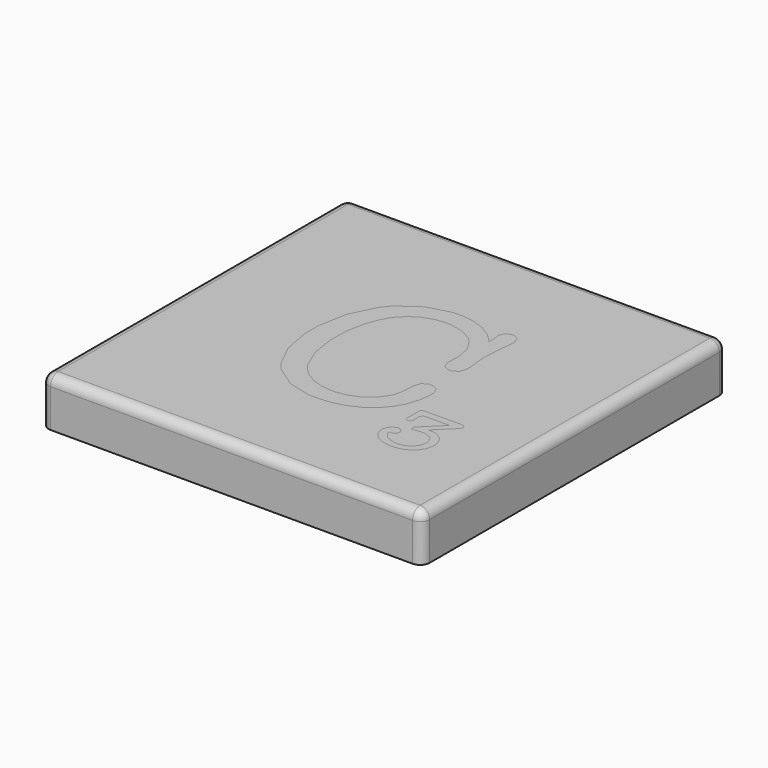
from build123d import *

# Parameters (mm, degrees)
F0_W     = 40
F0_H     = 40
F1_DEPTH = 5
F2_R     = 1
F5_DEPTH = 3


with BuildPart() as f1:
    # F0 (on Top) → F1 (new body)
    with BuildSketch(Plane.XY):
        Rectangle(F0_W, F0_H)
    extrude(amount=-F1_DEPTH)

    # F2
    f2_edges = [f1.edges().sort_by_distance(p)[0] for p in [
        (0, -20, 0),
        (20, 0, 0),
        (0, 20, 0),
        (-20, 0, 0),
        (-20, 20, -2.5),
        (20, 20, -2.5),
        (-20, -20, -2.5),
        (20, -20, -2.5),
    ]]
    fillet(f2_edges, radius=F2_R)


with BuildPart() as f5:
    # F3 (on Top) + F4 (on Top) → F5 (new body)
    with BuildSketch(Plane.XY):
        Polygon((0.866115, 9.405798), (0.516103, 9.405798), (-0.290068, 9.405798), (-2.708554, 8.744356), (-4.874819, 7.200951), (-5.238598, 6.759981), (-5.602402, 6.319012), (-6.875729, 3.697961), (-7.421423, 0.775132), (-7.421423, -0.199136), (-7.421423, -1.138936), (-6.889496, -3.961155), (-5.647893, -6.473342), (-5.292344, -6.892265), (-4.938192, -7.311187), (-2.80223, -8.777402), (-0.393446, -9.405798), (0.409981, -9.405798), (0.777926, -9.405798), (1.885848, -9.292793), (3.21978, -8.955176), (4.413148, -8.392947), (5.222088, -7.82795), (5.463235, -7.607452), (5.698896, -7.389724), (6.319012, -6.642837), (6.930873, -5.548655), (7.298766, -4.327728), (7.421423, -3.314852), (7.421423, -2.977261), (7.421423, -2.748483), (7.149973, -2.063598), (6.539484, -1.760449), (6.336919, -1.760449), (6.148121, -1.760449), (5.581726, -2.063598), (5.330952, -2.748483), (5.330952, -2.977261), (5.330952, -3.268015), (5.250993, -4.140327), (5.06636, -4.91203), (5.014011, -5.040147), (4.934077, -5.234457), (4.360799, -6.091606), (3.556051, -6.799936), (3.360369, -6.919824), (3.163291, -7.038315), (2.106346, -7.454494), (1.052144, -7.63364), (0.700735, -7.63364), (0.378257, -7.63364), (-0.587705, -7.506868), (-1.724609, -7.126529), (-2.711298, -6.493993), (-3.36583, -5.850458), (-3.546399, -5.609285), (-3.799942, -5.271694), (-4.687392, -3.185312), (-5.067732, -0.766902), (-5.067732, 0.039268), (-5.067732, 0.459588), (-4.975403, 1.716354), (-4.697044, 3.201848), (-4.234028, 4.494479), (-3.773754, 5.340579), (-3.584956, 5.595518), (-3.409925, 5.83532), (-2.774696, 6.476086), (-1.819681, 7.104456), (-0.724179, 7.480706), (0.206045, 7.606081), (0.516103, 7.606081), (0.969442, 7.606081), (2.333701, 7.308444), (3.561563, 6.613881), (3.769614, 6.415456), (3.976345, 6.217006), (4.688789, 5.047056), (4.968545, 3.638702), (4.960239, 3.32039), (4.934077, 2.368169), (4.928565, 2.179371), (5.17111, 1.515161), (5.747106, 1.229893), (5.940044, 1.229893), (6.117819, 1.229893), (6.65386, 1.527581), (6.892265, 2.197278), (6.892265, 2.420518), (6.892265, 2.68511), (6.786143, 3.691103), (6.772351, 3.81508), (6.70621, 4.78249), (6.70621, 5.146294), (6.70621, 5.324069), (6.739306, 5.854598), (6.816446, 6.750304), (6.838493, 6.970801), (6.856425, 7.147179), (6.918452, 7.818298), (6.944614, 8.136611), (6.944614, 8.24136), (6.944614, 8.450834), (6.720002, 9.07509), (6.212891, 9.352051), (6.044743, 9.352051), (5.884901, 9.352051), (5.409514, 9.128811), (5.198643, 8.623071), (5.198643, 8.453603), (5.241366, 8.02226), (5.250993, 7.924419), (5.250993, 7.885836), (5.27304, 7.765923), (5.278603, 7.738364), (5.278603, 7.44761), (5.304765, 7.156856), (5.082896, 7.425563), (4.309821, 8.140751), (3.181223, 8.843543), (1.916151, 9.265234), align=None)
    with BuildSketch(Plane.XY):
        Polygon((12.033296, -6.429832), (10.051664, -8.372856), (10.025502, -8.397646), (9.898706, -8.572652), (9.898706, -8.640191), (9.898706, -8.70082), (10.069597, -8.88685), (10.127458, -8.88685), (10.163297, -8.88685), (10.274905, -8.871712), (10.290069, -8.868943), (10.35621, -8.853779), (10.868859, -8.7821), (11.061772, -8.7821), (11.324992, -8.7821), (12.118742, -9.090812), (12.471522, -9.788093), (12.471522, -10.020985), (12.471522, -10.180828), (12.344726, -10.661777), (12.049832, -11.102746), (11.965783, -11.17854), (11.881709, -11.252962), (11.389736, -11.517528), (10.849555, -11.630533), (10.670408, -11.630533), (10.385166, -11.630533), (9.532158, -11.343894), (9.446713, -11.287404), (9.359895, -11.229517), (8.927181, -10.679684), (8.927181, -10.47849), (8.927181, -10.410977), (9.031931, -10.410977), (9.136655, -10.410977), (9.453596, -10.291089), (9.59416, -10.023729), (9.59416, -9.93554), (9.59416, -9.844582), (9.463248, -9.573133), (9.437061, -9.549688), (9.410873, -9.524898), (9.132515, -9.402241), (9.031931, -9.402241), (8.883087, -9.402241), (8.436605, -9.658553), (8.393883, -9.710928), (8.351185, -9.761905), (8.137571, -10.278668), (8.137571, -10.468838), (8.137571, -10.646613), (8.315346, -11.184051), (8.731499, -11.68151), (8.851413, -11.768328), (8.969904, -11.853773), (9.653418, -12.156948), (10.38791, -12.287859), (10.633197, -12.287859), (10.896418, -12.287859), (11.688771, -12.127992), (12.409496, -11.755932), (12.533524, -11.649837), (12.656155, -11.542344), (13.086126, -10.918088), (13.270759, -10.230434), (13.270759, -10.001681), (13.270759, -9.817023), (13.141219, -9.264446), (12.838044, -8.758682), (12.75265, -8.673287), (12.665832, -8.58647), (12.160093, -8.28327), (11.606119, -8.15373), (11.422833, -8.15373), (11.298804, -8.15373), (11.282269, -8.155127), (11.184428, -8.163382), (11.147217, -8.163382), (12.900071, -6.478041), (12.938654, -6.439458), (13.137104, -6.141821), (13.137104, -6.030188), (13.137104, -5.965418), (12.996566, -5.77248), (12.680971, -5.68706), (12.576247, -5.68706), (12.452218, -5.68706), (12.080134, -5.693918), (12.042923, -5.696712), (11.965783, -5.699455), (11.556487, -5.715965), (11.395248, -5.715965), (9.051209, -5.715965), (8.935461, -5.715965), (8.590961, -5.766993), (8.575797, -5.777992), (8.559262, -5.787669), (8.4807, -6.016396), (8.4807, -6.09633), (8.4807, -6.163868), (8.487609, -6.369177), (8.48898, -6.392595), (8.490352, -6.414643), (8.498632, -6.691655), (8.498632, -6.792239), (8.486212, -7.099528), (8.48484, -7.139508), (8.482097, -7.17809), (8.471073, -7.399959), (8.471073, -7.486777), (8.471073, -7.562545), (8.550982, -7.794091), (8.732896, -7.897418), (8.794898, -7.897418), (8.856925, -7.897418), (9.044326, -7.773416), (9.128374, -7.49366), (9.128374, -7.401331), (9.128374, -7.33933), (9.111839, -7.154672), (9.109096, -7.125716), (9.104956, -7.095413), (9.089792, -6.917639), (9.089792, -6.848754), (9.089792, -6.759168), (9.288242, -6.490462), (9.328196, -6.478041), (9.348872, -6.469786), (9.698884, -6.429832), (9.822912, -6.429832), align=None)
    extrude(amount=-F5_DEPTH)


solid = Compound([f1.part, f5.part])
